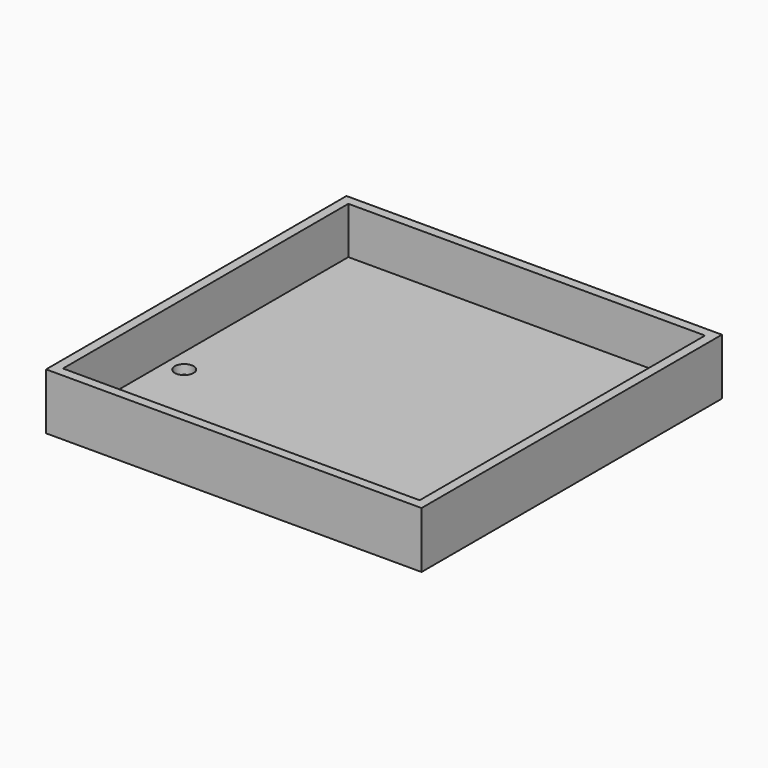
from build123d import *

# Parameters (mm, degrees)
F0_W     = 50.8
F0_H     = 50.8
F1_DEPTH = 7.62
F2_T     = -1.27
F3_R     = 1.27
F4_DEPTH = 25.4


with BuildPart() as f1:
    # F0 (on Top) → F1 (new body)
    with BuildSketch(Plane.XY):
        with Locations((25.4, 25.4)):
            Rectangle(F0_W, F0_H)
    extrude(amount=F1_DEPTH)

    # F2
    f2_openings = [f1.faces().sort_by_distance(p)[0] for p in [
        (25.4, 25.4, 7.62),
    ]]
    offset(amount=F2_T, openings=f2_openings)

    # F3 (on face) → F4 (cut)
    with BuildSketch(Plane.XY.offset(1.27)):
        with Locations((3.81, 18.601548)):
            Circle(F3_R)
    extrude(amount=-F4_DEPTH, mode=Mode.SUBTRACT)


solid = f1.part
